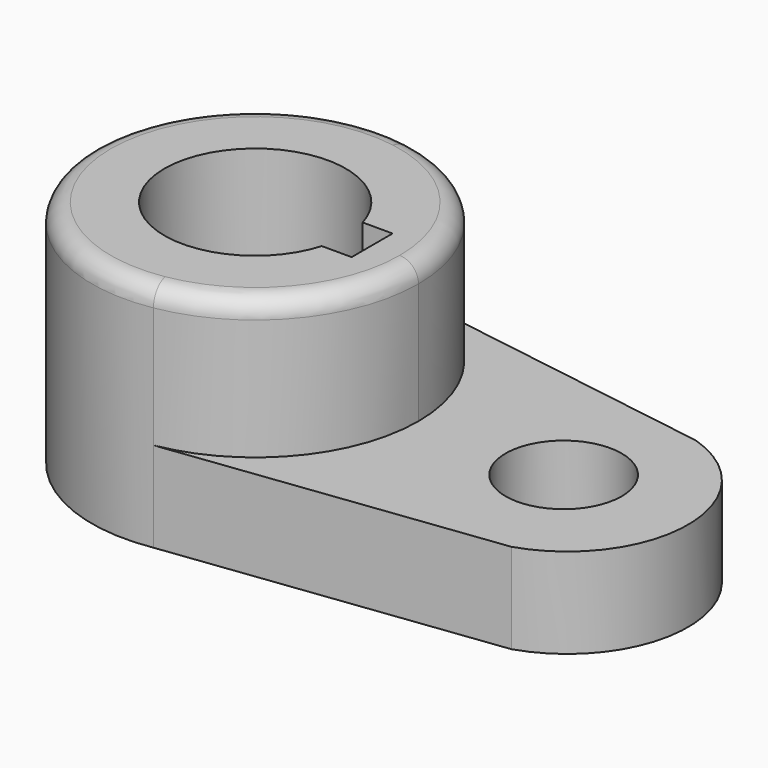
from build123d import *

# Parameters (mm, degrees)
F2_DEPTH = 40.2336
F3_DEPTH = 15.7734
F4_R     = 3.302
F1_R     = 10.16
F5_DEPTH = 40.64


with BuildPart() as f2:
    # F0 (on Top) → F2 (new body)
    with BuildSketch(Plane.XY):
        with BuildLine():
            ThreePointArc((4.744137, -28.178428), (21.818505, -18.452194), (28.575, 0))
            ThreePointArc((28.575, 0), (21.818505, 18.452194), (4.744137, 28.178428))
            ThreePointArc((4.744137, 28.178428), (-28.575, 0), (4.744137, -28.178428))
        make_face()
        with BuildLine():
            ThreePointArc((15.231124, -4.475321), (-15.875, -0.002348), (15.229799, 4.479826))
            Line((15.229799, 4.479826), (20.463184, 4.475321))
            Line((20.463184, 4.475321), (20.463184, -4.475321))
            Line((20.463184, -4.475321), (15.231124, -4.475321))
        make_face(mode=Mode.SUBTRACT)
    extrude(amount=F2_DEPTH)

    # F0 (on Top) → F3 (join)
    with BuildSketch(Plane.XY):
        with BuildLine():
            ThreePointArc((4.744137, 28.178428), (21.818505, 18.452194), (28.575, 0))
            ThreePointArc((28.575, 0), (21.818505, -18.452194), (4.744137, -28.178428))
            Line((4.744137, -28.178428), (61.701294, -21.083742))
            ThreePointArc((61.701294, -21.083742), (76.474609, -0.919848), (61.701294, 19.244047))
            Line((61.701294, 19.244047), (4.744137, 28.178428))
        make_face()
    extrude(amount=F3_DEPTH)

    # F4
    f4_edges = [f2.edges().sort_by_distance(p)[0] for p in [
        (-4.744137, 28.178428, 40.2336),
    ]]
    fillet(f4_edges, radius=F4_R)

    # F1 (on Top) → F5 (cut)
    with BuildSketch(Plane.XY):
        with Locations((53.975, 0)):
            Circle(F1_R)
    extrude(amount=F5_DEPTH, mode=Mode.SUBTRACT)


solid = f2.part
